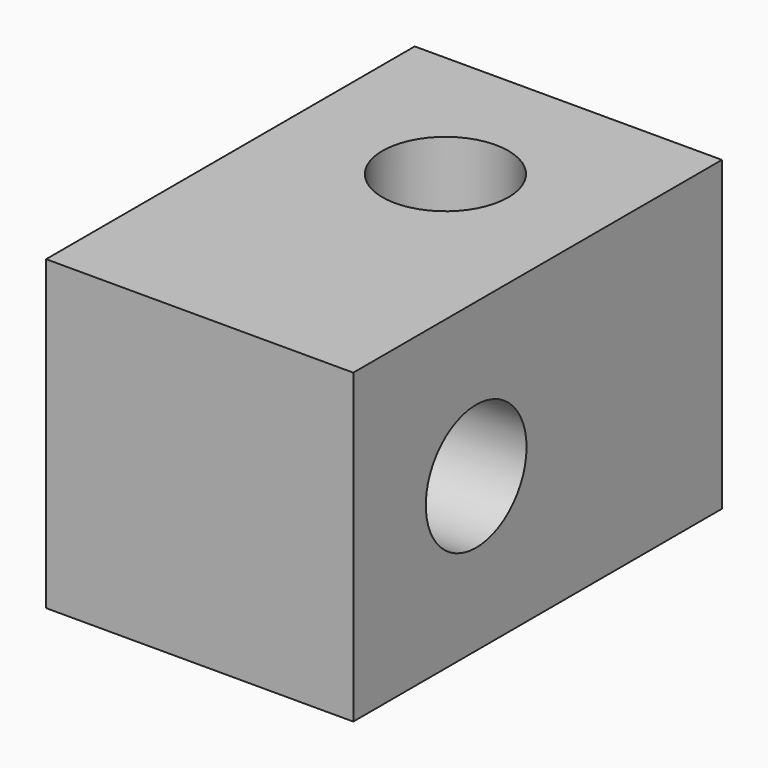
from build123d import *

# Parameters (mm, degrees)
SKETCH_W     = 20
SKETCH_H     = 30
SKETCH_R     = 4.1
PAD_DEPTH    = 20
SKETCH001_R  = 4.1
POCKET_DEPTH = 20


with BuildPart() as part:
    # Sketch → Pad (new body)
    with BuildSketch(Plane.XY):
        with Locations((-22.871155, 25.870022)):
            Rectangle(SKETCH_W, SKETCH_H)
        with Locations((-22.871155, 30.870022)):
            Circle(SKETCH_R, mode=Mode.SUBTRACT)
    extrude(amount=PAD_DEPTH)

    # Sketch001 → Pocket (cut)
    with BuildSketch(Plane.YZ.offset(-12.871155)):
        with Locations((20.870022, 10)):
            Circle(SKETCH001_R)
    extrude(amount=-POCKET_DEPTH, mode=Mode.SUBTRACT)


solid = part.part
